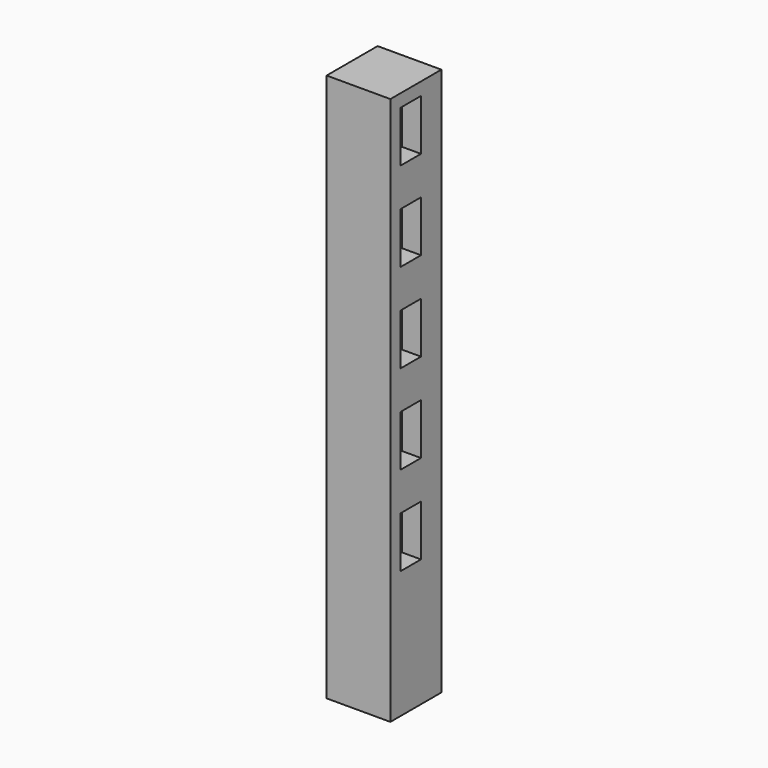
from build123d import *

# Parameters (mm, degrees)
F0_W     = 50
F0_H     = 50
F1_DEPTH = 430
F2_W     = 20
F2_H     = 40
F3_DEPTH = 15
F4_W     = 20
F4_H     = 40
F5_DEPTH = 15


with BuildPart() as f1:
    # F0 (on Top) → F1 (new body)
    with BuildSketch(Plane.XY):
        with Locations((25, -25)):
            Rectangle(F0_W, F0_H)
    extrude(amount=F1_DEPTH)

    # F2 (on face) → F3 (cut)
    with BuildSketch(Plane.YZ.offset(50)):
        with Locations((-30, 400)):
            Rectangle(F2_W, F2_H)
        with Locations((-30, 330)):
            Rectangle(F2_W, F2_H)
        with Locations((-30, 260)):
            Rectangle(F2_W, F2_H)
        with Locations((-30, 190)):
            Rectangle(F2_W, F2_H)
        with Locations((-30, 120)):
            Rectangle(F2_W, F2_H)
    extrude(amount=-F3_DEPTH, mode=Mode.SUBTRACT)

    # F4 (on face) → F5 (cut)
    with BuildSketch(Plane(origin=(0, 0, 0), x_dir=(-1, 0, 0), z_dir=(0, 1, 0))):
        with Locations((-20, 400)):
            Rectangle(F4_W, F4_H)
        with Locations((-20, 330)):
            Rectangle(F4_W, F4_H)
        with Locations((-20, 260)):
            Rectangle(F4_W, F4_H)
        with Locations((-20, 190)):
            Rectangle(F4_W, F4_H)
        with Locations((-20, 120)):
            Rectangle(F4_W, F4_H)
    extrude(amount=-F5_DEPTH, mode=Mode.SUBTRACT)


solid = f1.part
